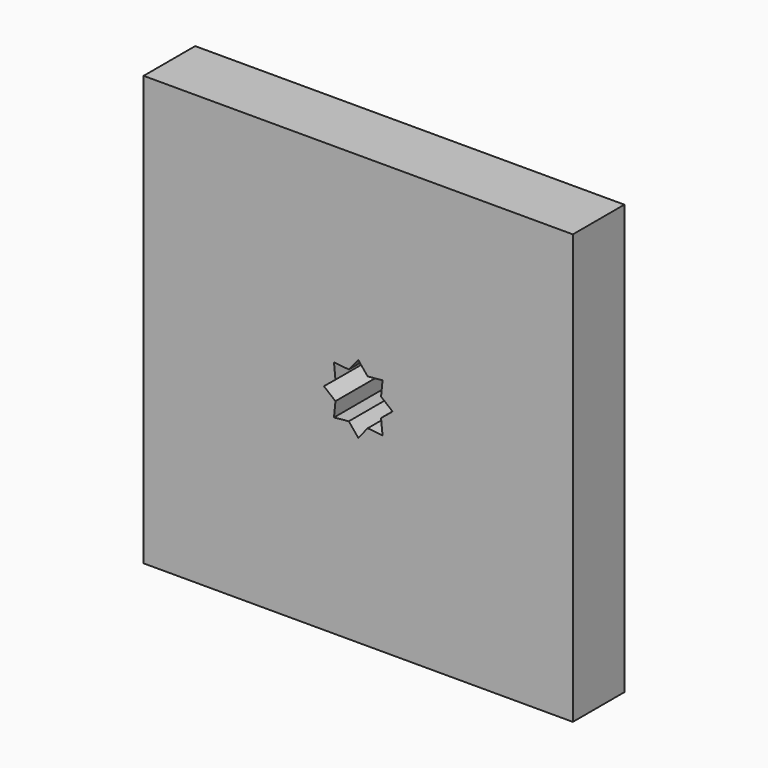
from build123d import *

# Parameters (mm, degrees)
F0_W     = 20
F0_H     = 20
F1_DEPTH = 3


with BuildPart() as f1:
    # F0 (on Front) → F1 (new body)
    with BuildSketch(Plane.XZ):
        Rectangle(F0_W, F0_H)
        Polygon((-1.062461, 0.440086), (-1.131371, 1.131371), (-0.440086, 1.062461), (0, 1.6), (0.440086, 1.062461), (1.131371, 1.131371), (1.062461, 0.440086), (1.6, 0), (1.062461, -0.440086), (1.131371, -1.131371), (0.440086, -1.062461), (0, -1.6), (-0.440086, -1.062461), (-1.131371, -1.131371), (-1.062461, -0.440086), (-1.6, 0), align=None, mode=Mode.SUBTRACT)
    extrude(amount=F1_DEPTH)


solid = f1.part
